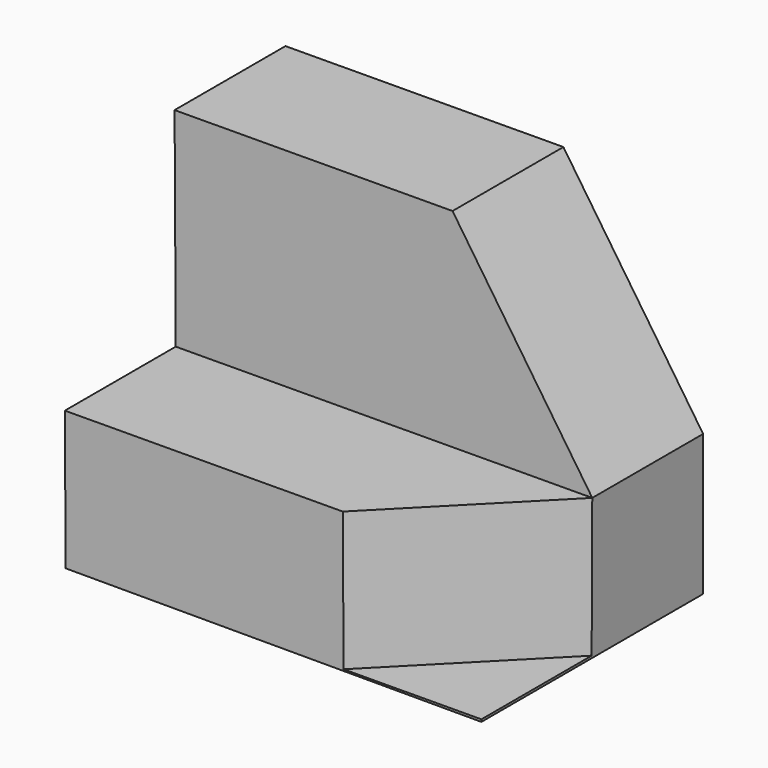
from build123d import *

# Parameters (mm, degrees)
F1_DEPTH = 25.4
F2_DEPTH = 19.05
F4_DEPTH = 12.7
F6_DEPTH = 12.701
F8_DEPTH = 12.7


with BuildPart() as f1:
    # F0 (on Front) → F1 (new body)
    with BuildSketch(Plane.XZ):
        Polygon((-42.0901787708, 12.7), (-42.0200370051, 0), (-3.9200370051, 0), (-3.9200370051, 12.9108126882), align=None)
    extrude(amount=F1_DEPTH)

    # F2 (add): a face of the model
    f2_faces = [f1.faces().sort_by_distance(p)[0] for p in [
        (-23.005107888, -12.7, 12.8054063441),
    ]]
    extrude(f2_faces, amount=F2_DEPTH)

    # F3 (on face) → F4 (cut)
    with BuildSketch(Plane.XZ.offset(25.4)):
        Polygon((-42.0901787708, 12.7), (-3.9200370051, 12.9108126882), (-4.025248049, 31.9605221515), (-42.1953898147, 31.7497094633), align=None)
    extrude(amount=-F4_DEPTH, mode=Mode.SUBTRACT)

    # F5 (on face) → F6 (cut, through all)
    with BuildSketch(Plane.XZ.offset(12.7)):
        Polygon((-4.025248049, 31.9605221515), (-16.7250543579, 31.8903814555), (-3.9200370051, 12.9108126882), align=None)
    extrude(amount=-F6_DEPTH, mode=Mode.SUBTRACT)

    # F7 (on face) → F8 (cut)
    with BuildSketch(Plane(origin=(-0.0714234738, 0, 12.9320684794), x_dir=(0.9999847487, 0, 0.0055228894), z_dir=(-0.0055228894, 0, 0.9999847487))):
        Polygon((-3.8486722285, -12.7), (-16.5486722285, -25.4), (-3.8486722285, -25.4), align=None)
    extrude(amount=-F8_DEPTH, mode=Mode.SUBTRACT)


solid = f1.part
